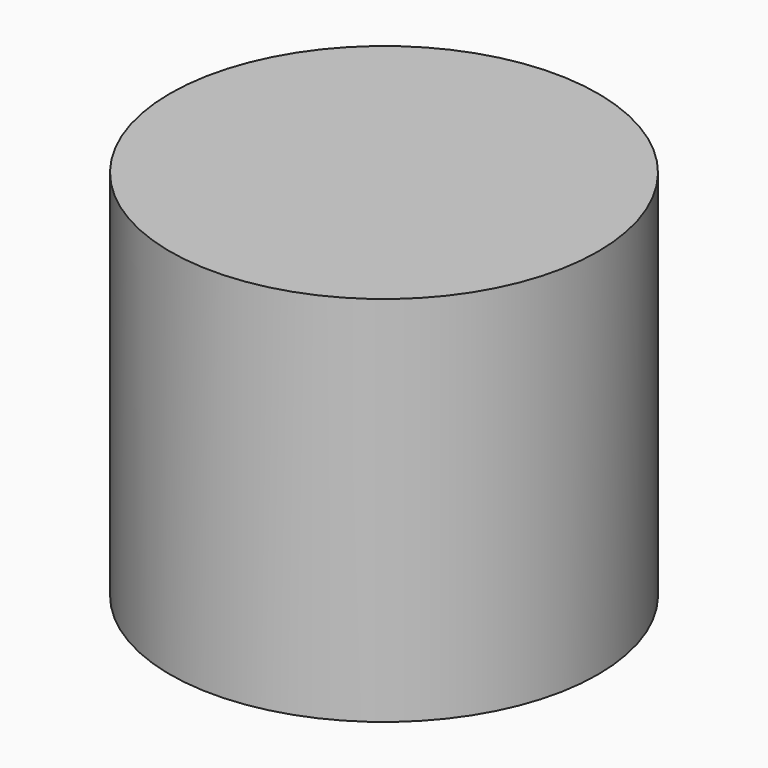
from build123d import *

# Parameters (mm, degrees)
F0_R     = 42.921614
F1_DEPTH = 74.687088


with BuildPart() as f1:
    # F0 (on Top) → F1 (new body)
    with BuildSketch(Plane.XY):
        with Locations((-8.758433, 22.863109)):
            Circle(F0_R)
    extrude(amount=-F1_DEPTH)


solid = f1.part
